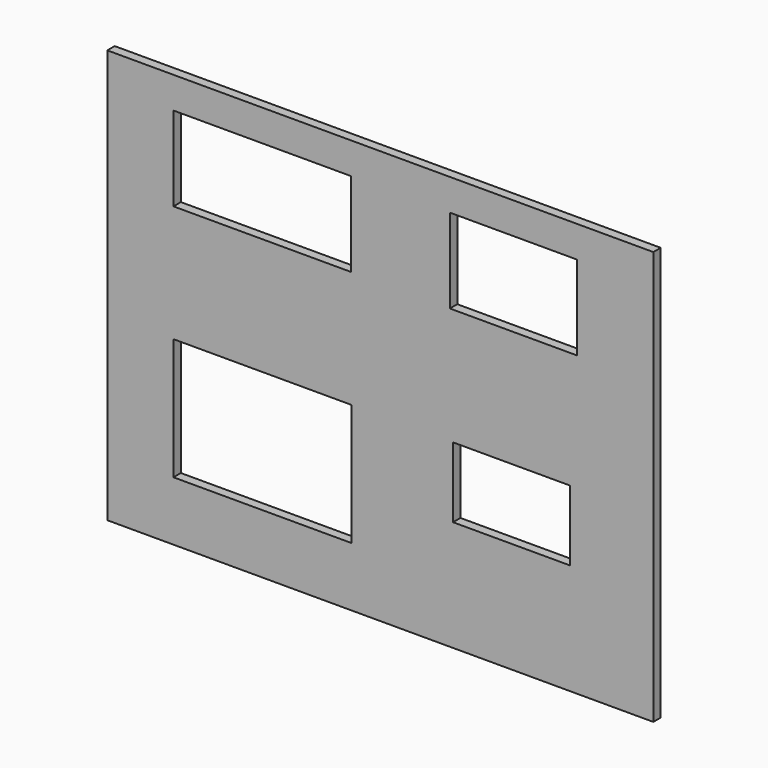
from build123d import *

# Parameters (mm, degrees)
F0_W     = 6600
F0_H     = 5000
F0_W_2   = 2153
F0_H_2   = 1470
F0_W_3   = 1413.821936
F0_H_3   = 850
F0_W_4   = 2145
F0_H_4   = 1020
F0_W_5   = 1535
F1_DEPTH = 112


with BuildPart() as f1:
    # F0 (on Front) → F1 (new body)
    with BuildSketch(Plane.XZ):
        with Locations((-11.196087, -273.483865)):
            Rectangle(F0_W, F0_H)
        with Locations((-1434.696087, -1321.483865)):
            Rectangle(F0_W_2, F0_H_2, mode=Mode.SUBTRACT)
        with Locations((1575.146794, -1010.641885)):
            Rectangle(F0_W_3, F0_H_3, mode=Mode.SUBTRACT)
        with Locations((-1438.696087, 1336.516135)):
            Rectangle(F0_W_4, F0_H_4, mode=Mode.SUBTRACT)
        with Locations((1597.303913, 1336.516135)):
            Rectangle(F0_W_5, F0_H_4, mode=Mode.SUBTRACT)
    extrude(amount=F1_DEPTH)


solid = f1.part
